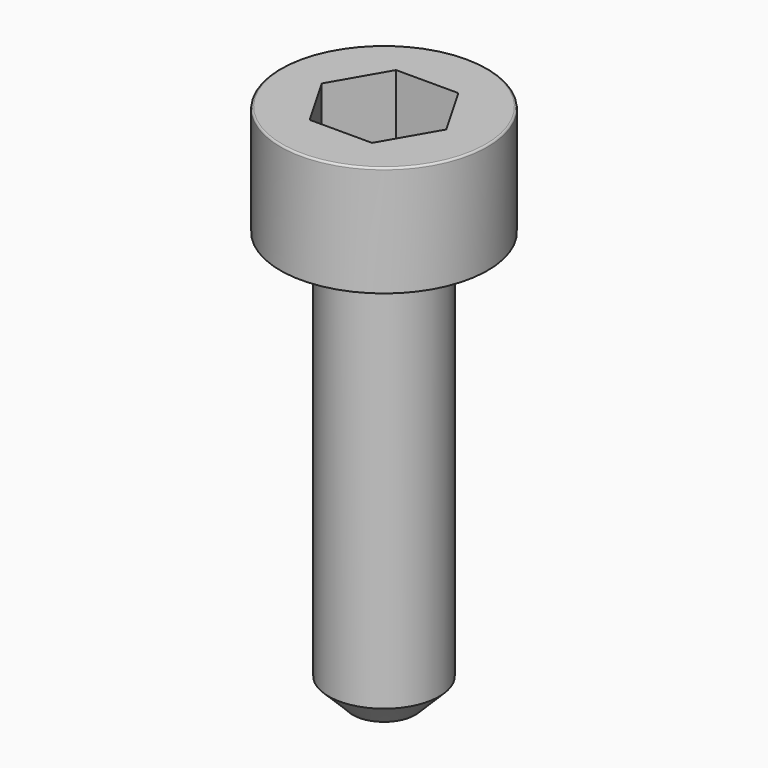
from build123d import *

# Parameters (mm, degrees)
POCKET_DEPTH = 1.56


with BuildPart() as part:
    # Sketch → Revolve (revolve)
    with BuildSketch(Plane.YZ):
        with BuildLine():
            Line((0.799, 0), (1.5, 0))
            Line((1.5, 0), (1.5, 1.57229))
            ThreePointArc((1.5, 1.57229), (1.491884, 1.591884), (1.47229, 1.6))
            Line((1.47229, 1.6), (0, 1.6))
            Line((0, -6), (0, 1.6))
            Line((0.45, -6), (0, -6))
            Line((0.8, -5.65), (0.45, -6))
            Line((0.8, -0.2), (0.8, -5.65))
            Line((0.799, 0), (0.8, -0.2))
        make_face()
    revolve(axis=Axis((0, 0, 0), (0, 0, 1)))

    # Sketch001 → Pocket (cut)
    with BuildSketch(Plane.XY.offset(1.6)):
        Polygon((0.900666, 0), (0.450333, 0.78), (-0.450333, 0.78), (-0.900666, 0), (-0.450333, -0.78), (0.450333, -0.78), align=None)
    extrude(amount=-POCKET_DEPTH, mode=Mode.SUBTRACT)


solid = part.part
